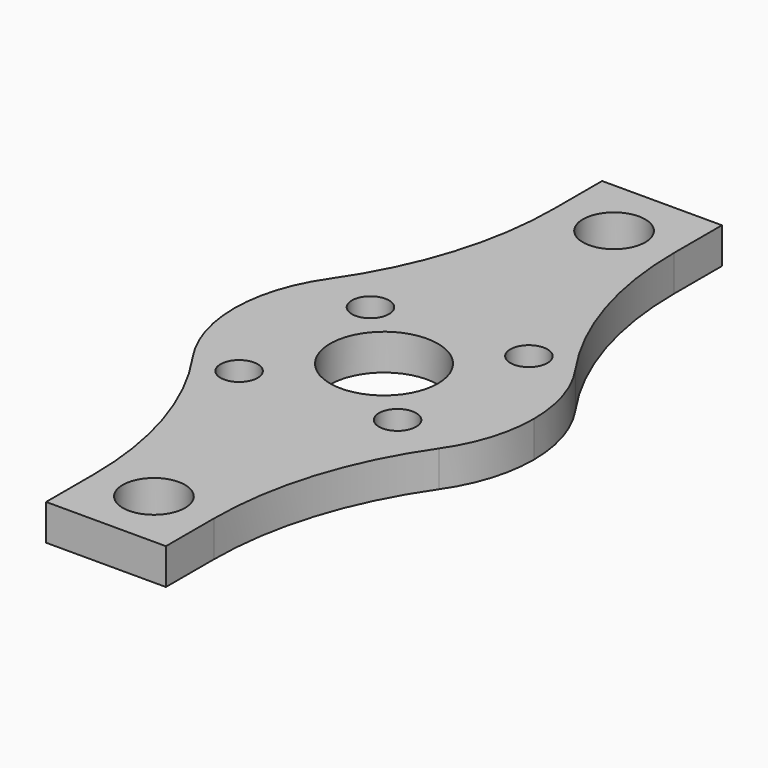
from build123d import *

# Parameters (mm, degrees)
F0_R     = 1.55
F0_R_2   = 2.6
F0_R_3   = 4.5
F1_DEPTH = 3


with BuildPart() as f1:
    # F0 (on Top) → F1 (new body)
    with BuildSketch(Plane.XY):
        with BuildLine():
            ThreePointArc((-5, 24), (-6.349669, 15.156146), (-10.275801, 7.117438))
            ThreePointArc((-10.275801, 7.117438), (-11.931, 3.728437), (-12.5, 0))
            ThreePointArc((-12.5, 0), (-11.931, -3.728437), (-10.275801, -7.117438))
            ThreePointArc((-10.275801, -7.117438), (-6.349669, -15.156146), (-5, -24))
            Line((-5, -24), (-5, -29))
            Line((-5, -29), (5, -29))
            Line((5, -29), (5, -24))
            ThreePointArc((5, -24), (6.349669, -15.156146), (10.275801, -7.117438))
            ThreePointArc((10.275801, -7.117438), (11.931, -3.728437), (12.5, 0))
            ThreePointArc((12.5, 0), (11.931, 3.728437), (10.275801, 7.117438))
            ThreePointArc((10.275801, 7.117438), (6.349669, 15.156146), (5, 24))
            Line((5, 24), (5, 29))
            Line((5, 29), (-5, 29))
            Line((-5, 29), (-5, 24))
        make_face()
        with Locations((-6.717514, -6.717514)):
            Circle(F0_R, mode=Mode.SUBTRACT)
        with Locations((0, -24)):
            Circle(F0_R_2, mode=Mode.SUBTRACT)
        with Locations((5.656854, -5.656854)):
            Circle(F0_R, mode=Mode.SUBTRACT)
        with Locations((-5.656854, 5.656854)):
            Circle(F0_R, mode=Mode.SUBTRACT)
        Circle(F0_R_3, mode=Mode.SUBTRACT)
        with Locations((6.717514, 6.717514)):
            Circle(F0_R, mode=Mode.SUBTRACT)
        with Locations((0, 24)):
            Circle(F0_R_2, mode=Mode.SUBTRACT)
    extrude(amount=F1_DEPTH)


solid = f1.part
